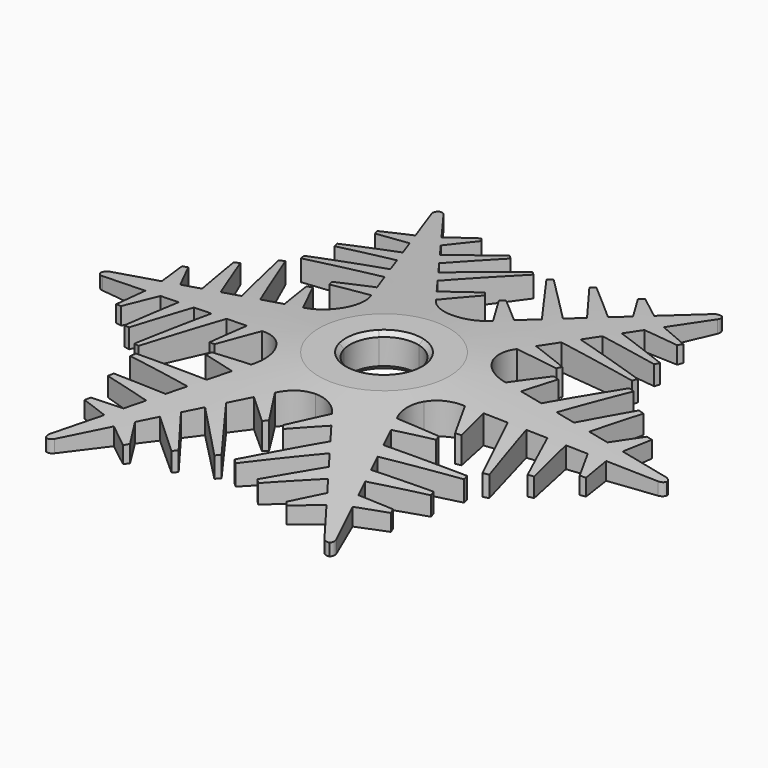
from build123d import *

# Parameters (mm, degrees)
PAD_DEPTH            = 12
PAD_MIRRORED_2_DEPTH = 12
POLARPATTERN_COUNT   = 6
CHAMFER_SIZE         = 1.5
CHAMFER001_SIZE      = 1.5


with BuildPart() as part:
    # Sketch → Pad (new body)
    with BuildSketch(Plane.XY):
        with BuildLine():
            Line((42.499274, 21.737296), (44.457766, 21.331948))
            Line((44.457766, 21.331948), (41.764233, 8.317764))
            Line((41.764233, 8.317764), (49.619641, 7.390045))
            Line((49.619641, 7.390045), (60.740716, 32.40976))
            Line((60.740716, 32.40976), (62.66591, 31.867888))
            Line((62.66591, 31.867888), (55.578232, 6.686339))
            Line((55.578232, 6.686339), (62.390886, 5.881769))
            Line((62.390886, 5.881769), (70.37332, 24.535585))
            Line((70.37332, 24.535585), (72.330578, 24.124314))
            Line((72.330578, 24.124314), (68.349477, 5.178063))
            Line((68.349477, 5.178063), (75.409318, 4.344299))
            Line((75.409318, 4.344299), (80.963316, 14.823455))
            Line((80.963316, 14.823455), (82.94275, 14.537381))
            Line((82.94275, 14.537381), (81.367909, 3.640593))
            Line((81.367909, 3.640593), (98.131409, 1.660834))
            ThreePointArc((100, 0), (99.325976, 1.123246), (98.131409, 1.660834))
            Line((100, 0), (12, 0))
            ThreePointArc((12, 0), (8.485281, 8.485281), (0, 12))
            Line((0, 12), (0, 22))
            ThreePointArc((19.052559, 11), (11, 19.052559), (0, 22))
            Line((19.052559, 11), (26.093345, 15.065))
            ThreePointArc((26.093345, 15.065), (30.193062, 10.827606), (35.805643, 9.02147))
            Line((35.805643, 9.02147), (42.499274, 21.737296))
        make_face()
    pad = extrude(amount=PAD_DEPTH)

    # Sketch Mirrored 2 → Pad Mirrored 2 (add)
    with BuildSketch(Plane(origin=(0, 0, 0), x_dir=(1, 0, 0), z_dir=(0, 0, -1))):
        with BuildLine():
            Line((42.499274, 21.737296), (44.457766, 21.331948))
            Line((44.457766, 21.331948), (41.764233, 8.317764))
            Line((41.764233, 8.317764), (49.619641, 7.390045))
            Line((49.619641, 7.390045), (60.740716, 32.40976))
            Line((60.740716, 32.40976), (62.66591, 31.867888))
            Line((62.66591, 31.867888), (55.578232, 6.686339))
            Line((55.578232, 6.686339), (62.390886, 5.881769))
            Line((62.390886, 5.881769), (70.37332, 24.535585))
            Line((70.37332, 24.535585), (72.330578, 24.124314))
            Line((72.330578, 24.124314), (68.349477, 5.178063))
            Line((68.349477, 5.178063), (75.409318, 4.344299))
            Line((75.409318, 4.344299), (80.963316, 14.823455))
            Line((80.963316, 14.823455), (82.94275, 14.537381))
            Line((82.94275, 14.537381), (81.367909, 3.640593))
            Line((81.367909, 3.640593), (98.131409, 1.660834))
            ThreePointArc((100, 0), (99.325976, 1.123246), (98.131409, 1.660834))
            Line((100, 0), (12, 0))
            ThreePointArc((12, 0), (8.485281, 8.485281), (0, 12))
            Line((0, 12), (0, 22))
            ThreePointArc((19.052559, 11), (11, 19.052559), (0, 22))
            Line((19.052559, 11), (26.093345, 15.065))
            ThreePointArc((26.093345, 15.065), (30.193062, 10.827606), (35.805643, 9.02147))
            Line((35.805643, 9.02147), (42.499274, 21.737296))
        make_face()
    pad_mirrored_2 = extrude(amount=-PAD_MIRRORED_2_DEPTH)

    # PolarPattern: Pad, Pad Mirrored 2 ×6 about axis
    polarpattern_axis = Axis((0, 0, 0), (0, 0, 1))
    for i in range(1, POLARPATTERN_COUNT):
        add(pad.rotate(polarpattern_axis, i * 360 / POLARPATTERN_COUNT))
        add(pad_mirrored_2.rotate(polarpattern_axis, i * 360 / POLARPATTERN_COUNT))

    # Sketch001 → Groove (revolve, cut)
    with BuildSketch(Plane.XZ):
        Polygon((23, 12), (103, 12), (103, 4), align=None)
    revolve(axis=Axis((0, 0, 0), (0, 0, 1)), mode=Mode.SUBTRACT)

    # Chamfer
    chamfer_edges = [part.edges().sort_by_distance(p)[0] for p in [
        (-11.59111, 3.105829, 12),
        (-8.485281, 8.485281, 12),
        (-3.105829, 11.59111, 12),
        (3.105829, 11.59111, 12),
        (8.485281, 8.485281, 12),
        (11.59111, 3.105829, 12),
        (11.59111, -3.105829, 12),
        (8.485281, -8.485281, 12),
        (3.105829, -11.59111, 12),
        (-3.105829, -11.59111, 12),
        (-8.485281, -8.485281, 12),
        (-11.59111, -3.105829, 12),
    ]]
    chamfer(chamfer_edges, length=CHAMFER_SIZE)

    # Chamfer001
    chamfer001_edges = [part.edges().sort_by_distance(p)[0] for p in [
        (11.59111, -3.105829, 0),
        (11.59111, 3.105829, 0),
        (8.485281, 8.485281, 0),
        (3.105829, 11.59111, 0),
        (-3.105829, 11.59111, 0),
        (-8.485281, 8.485281, 0),
        (-11.59111, 3.105829, 0),
        (-11.59111, -3.105829, 0),
        (-8.485281, -8.485281, 0),
        (-3.105829, -11.59111, 0),
        (3.105829, -11.59111, 0),
        (8.485281, -8.485281, 0),
    ]]
    chamfer(chamfer001_edges, length=CHAMFER001_SIZE)


solid = part.part
